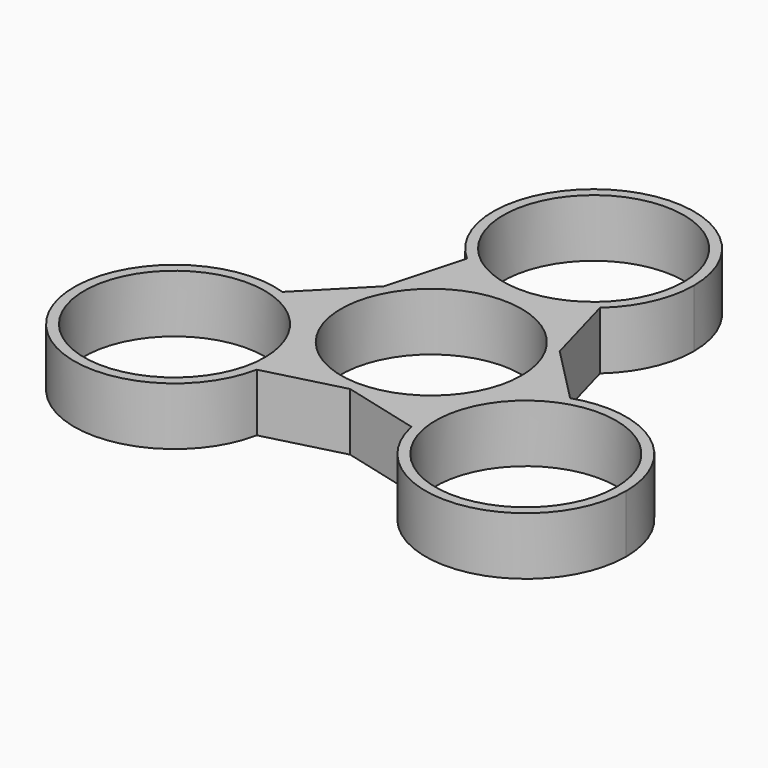
from build123d import *

# Parameters (mm, degrees)
F0_R     = 11.303
F1_DEPTH = 7.239
F2_DEPTH = 25.4


with BuildPart() as f1:
    # F0 (on Top) → F1 (new body)
    with BuildSketch(Plane.XY):
        with BuildLine():
            ThreePointArc((-8.328858, 15.993502), (0, 12.83608), (8.328858, 15.993502))
            ThreePointArc((8.328858, 15.993502), (11.456334, 20.242046), (12.56392, 25.4))
            ThreePointArc((12.56392, 25.4), (-5.157954, 36.856334), (-8.328858, 15.993502))
        make_face()
        with Locations((0, 25.4)):
            Circle(F0_R, mode=Mode.SUBTRACT)
        with Locations((0, 25.4)):
            Circle(F0_R)
        with BuildLine():
            ThreePointArc((10.998523, 6.35), (12.267258, 3.287002), (12.7, 0))
            ThreePointArc((12.7, 0), (8.980256, -8.980256), (0, -12.7))
            Line((0, -12.7), (9.68635, -15.209754))
            ThreePointArc((9.68635, -15.209754), (11.116371, -6.41804), (18.015208, -0.783748))
            Line((18.015208, -0.783748), (10.998523, 6.35))
        make_face()
        with BuildLine():
            ThreePointArc((-10.998523, 6.35), (0, 12.7), (10.998523, 6.35))
            Line((10.998523, 6.35), (8.328858, 15.993502))
            ThreePointArc((8.328858, 15.993502), (0, 12.83608), (-8.328858, 15.993502))
            Line((-8.328858, 15.993502), (-10.998523, 6.35))
        make_face()
        with Locations((-21.997045, -12.7)):
            Circle(F0_R)
        with Locations((21.997045, -12.7)):
            Circle(F0_R)
        with BuildLine():
            ThreePointArc((0, -12.7), (8.980256, -8.980256), (12.7, 0))
            ThreePointArc((12.7, 0), (12.267258, 3.287002), (10.998523, 6.35))
            ThreePointArc((10.998523, 6.35), (0, 12.7), (-10.998523, 6.35))
            ThreePointArc((-10.998523, 6.35), (-10.998523, -6.35), (0, -12.7))
        make_face()
        Circle(F0_R, mode=Mode.SUBTRACT)
        Circle(F0_R)
        with BuildLine():
            ThreePointArc((34.560965, -12.7), (29.339545, -2.504914), (18.015208, -0.783748))
            ThreePointArc((18.015208, -0.783748), (11.116371, -6.41804), (9.68635, -15.209754))
            ThreePointArc((9.68635, -15.209754), (23.258293, -25.200453), (34.560965, -12.7))
        make_face()
        with Locations((21.997045, -12.7)):
            Circle(F0_R, mode=Mode.SUBTRACT)
        with BuildLine():
            ThreePointArc((-18.015208, -0.783748), (-32.877719, -18.98196), (-9.68635, -15.209754))
            ThreePointArc((-9.68635, -15.209754), (-9.496592, -13.961248), (-9.433125, -12.7))
            ThreePointArc((-9.433125, -12.7), (-11.801959, -5.3575), (-18.015208, -0.783748))
        make_face()
        with Locations((-21.997045, -12.7)):
            Circle(F0_R, mode=Mode.SUBTRACT)
        with BuildLine():
            Line((-9.68635, -15.209754), (0, -12.7))
            ThreePointArc((0, -12.7), (-10.998523, -6.35), (-10.998523, 6.35))
            Line((-10.998523, 6.35), (-18.015208, -0.783748))
            ThreePointArc((-18.015208, -0.783748), (-11.801959, -5.3575), (-9.433125, -12.7))
            ThreePointArc((-9.433125, -12.7), (-9.496592, -13.961248), (-9.68635, -15.209754))
        make_face()
    extrude(amount=F1_DEPTH)

    # F0 (on Top) → F2 (cut)
    with BuildSketch(Plane.XY):
        with Locations((21.997045, -12.7)):
            Circle(F0_R)
        Circle(F0_R)
        with Locations((0, 25.4)):
            Circle(F0_R)
        with Locations((-21.997045, -12.7)):
            Circle(F0_R)
    extrude(amount=F2_DEPTH, mode=Mode.SUBTRACT)


solid = f1.part
